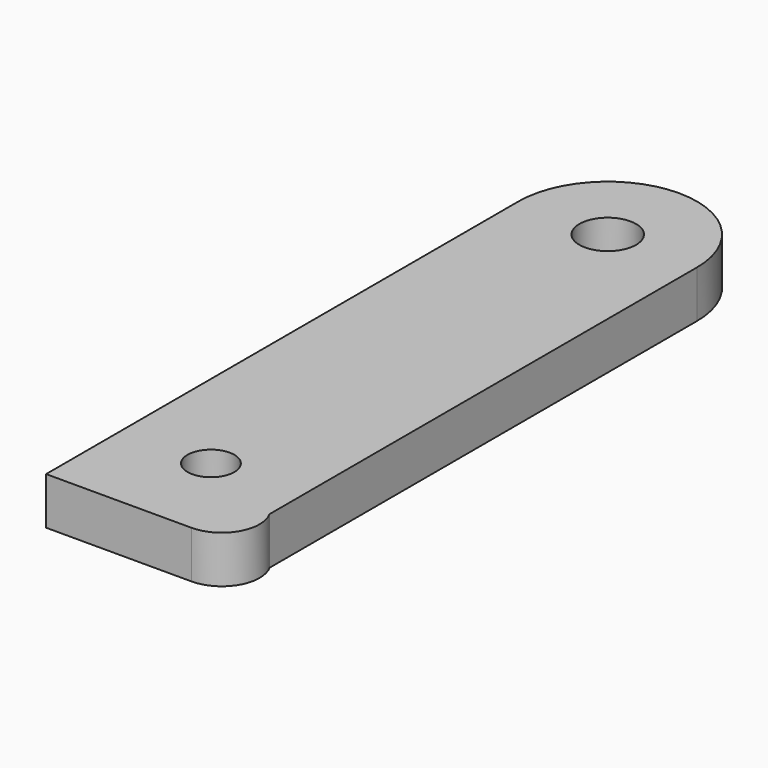
from build123d import *

# Parameters (mm, degrees)
F0_R     = 2.475
F0_R_2   = 3
F1_DEPTH = 5


with BuildPart() as f1:
    # F0 (on Top) → F1 (new body)
    with BuildSketch(Plane.XY):
        with BuildLine():
            Line((-9.45, 52.5), (-9.45, -10))
            Line((-9.45, -10), (5.95, -10))
            ThreePointArc((5.95, -10), (9.39572, -8.031506), (9.45, -4.063508))
            Line((9.45, -4.063508), (9.45, 52.5))
            ThreePointArc((9.45, 52.5), (0, 61.95), (-9.45, 52.5))
        make_face()
        Circle(F0_R, mode=Mode.SUBTRACT)
        with Locations((0, 52.5)):
            Circle(F0_R_2, mode=Mode.SUBTRACT)
    extrude(amount=F1_DEPTH)


solid = f1.part
